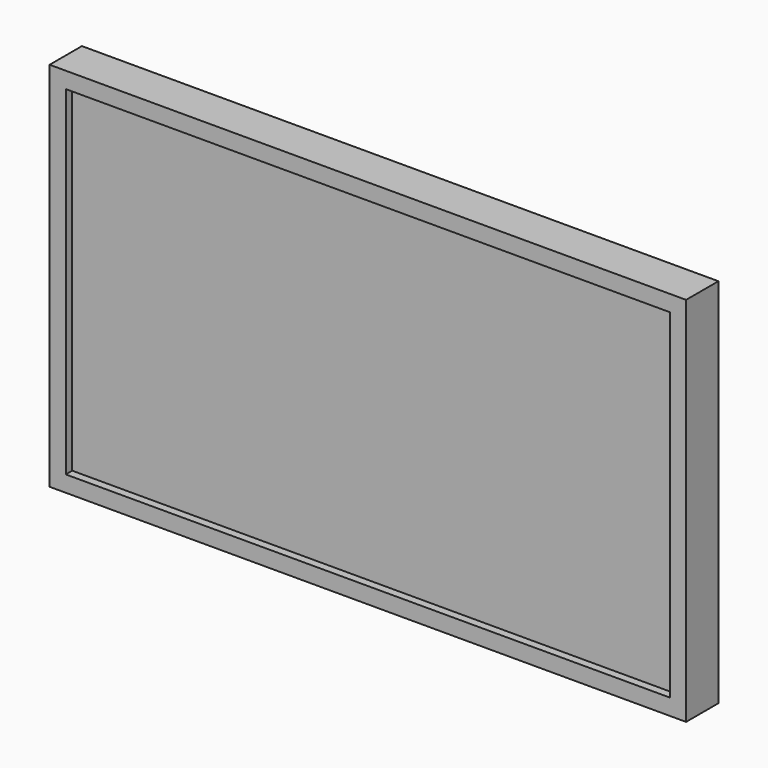
from build123d import *

# Parameters (mm, degrees)
F0_W     = 474.98
F0_H     = 266.7
F1_DEPTH = 25.4
F2_W     = 500.38
F2_H     = 292.1
F2_W_2   = 474.98
F2_H_2   = 266.7
F3_DEPTH = 31.75


with BuildPart() as f1:
    # F0 (on Front) → F1 (new body)
    with BuildSketch(Plane.XZ):
        Rectangle(F0_W, F0_H)
    extrude(amount=F1_DEPTH)

    # F2 (on Front) → F3 (join)
    with BuildSketch(Plane.XZ):
        Rectangle(F2_W, F2_H)
        Rectangle(F2_W_2, F2_H_2, mode=Mode.SUBTRACT)
    extrude(amount=F3_DEPTH)


solid = f1.part
